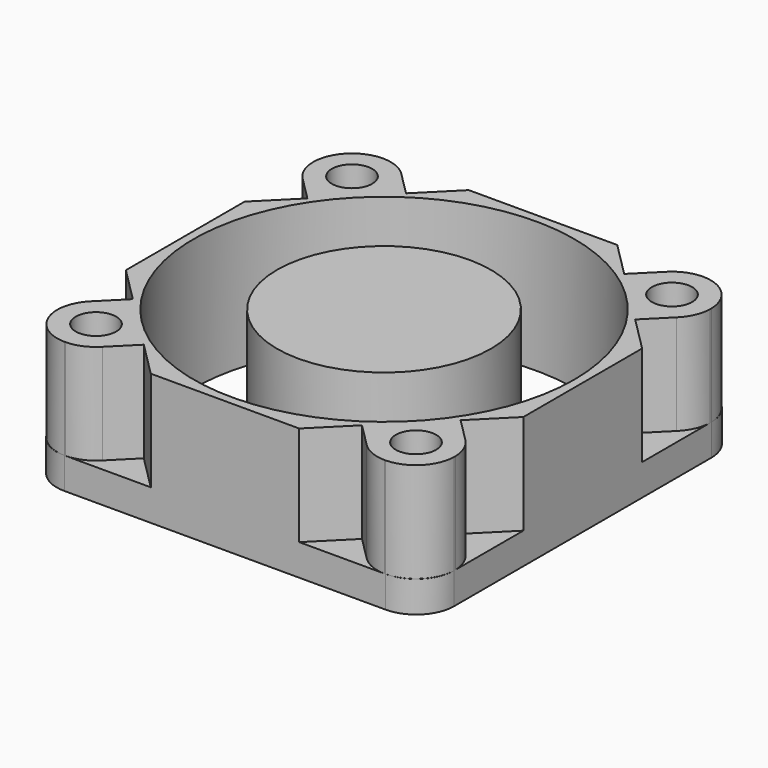
from build123d import *

# Parameters (mm, degrees)
F0_R     = 14.351
F1_DEPTH = 9.906
F2_W     = 35.827614
F2_H     = 36.253556
F3_DEPTH = 7.5438
F4_D     = 3.048
F5_R     = 8.0645
F6_DEPTH = 9.906


with BuildPart() as f1:
    # F0 (on Top) → F1 (new body)
    with BuildSketch(Plane.XY):
        with BuildLine():
            Line((12.1158, 14.986), (-12.1158, 14.986))
            ThreePointArc((-12.1158, 14.986), (-14.145338, 14.145338), (-14.986, 12.1158))
            Line((-14.986, 12.1158), (-14.986, -12.1158))
            ThreePointArc((-14.986, -12.1158), (-14.145338, -14.145338), (-12.1158, -14.986))
            Line((-12.1158, -14.986), (12.1158, -14.986))
            ThreePointArc((12.1158, -14.986), (14.145338, -14.145338), (14.986, -12.1158))
            Line((14.986, -12.1158), (14.986, 12.1158))
            ThreePointArc((14.986, 12.1158), (14.145338, 14.145338), (12.1158, 14.986))
        make_face()
        Circle(F0_R, mode=Mode.SUBTRACT)
    extrude(amount=F1_DEPTH)

    # F2 (on face) → F3 (cut)
    with BuildSketch(Plane.XY.offset(9.906)):
        with BuildLine():
            Line((-8.225915, 12.356832), (-9.96362, 14.094538))
            ThreePointArc((-9.96362, 14.094538), (-14.130771, 14.130771), (-14.094538, 9.96362))
            Line((-14.094538, 9.96362), (-12.356832, 8.225915))
            Line((-12.356832, 8.225915), (-14.986, 5.596747))
            Line((-14.986, 5.596747), (-14.986, -5.596747))
            Line((-14.986, -5.596747), (-12.356832, -8.225915))
            Line((-12.356832, -8.225915), (-14.094538, -9.96362))
            ThreePointArc((-14.094538, -9.96362), (-14.130771, -14.130771), (-9.96362, -14.094538))
            Line((-9.96362, -14.094538), (-8.225915, -12.356832))
            Line((-8.225915, -12.356832), (-5.596747, -14.986))
            Line((-5.596747, -14.986), (5.596747, -14.986))
            Line((5.596747, -14.986), (8.225915, -12.356832))
            Line((8.225915, -12.356832), (9.96362, -14.094538))
            ThreePointArc((9.96362, -14.094538), (14.130771, -14.130771), (14.094538, -9.96362))
            Line((14.094538, -9.96362), (12.356832, -8.225915))
            Line((12.356832, -8.225915), (14.986, -5.596747))
            Line((14.986, -5.596747), (14.986, 5.596747))
            Line((14.986, 5.596747), (12.356832, 8.225915))
            Line((12.356832, 8.225915), (14.094538, 9.96362))
            ThreePointArc((14.094538, 9.96362), (14.130771, 14.130771), (9.96362, 14.094538))
            Line((9.96362, 14.094538), (8.225915, 12.356832))
            Line((8.225915, 12.356832), (5.596747, 14.986))
            Line((5.596747, 14.986), (-5.596747, 14.986))
            Line((-5.596747, 14.986), (-8.225915, 12.356832))
        make_face()
        Rectangle(F2_W, F2_H)
        with BuildLine():
            ThreePointArc((-14.094538, 9.96362), (-14.130771, 14.130771), (-9.96362, 14.094538))
            Line((-9.96362, 14.094538), (-8.225915, 12.356832))
            Line((-8.225915, 12.356832), (-5.596747, 14.986))
            Line((-5.596747, 14.986), (5.596747, 14.986))
            Line((5.596747, 14.986), (8.225915, 12.356832))
            Line((8.225915, 12.356832), (9.96362, 14.094538))
            ThreePointArc((9.96362, 14.094538), (14.130771, 14.130771), (14.094538, 9.96362))
            Line((14.094538, 9.96362), (12.356832, 8.225915))
            Line((12.356832, 8.225915), (14.986, 5.596747))
            Line((14.986, 5.596747), (14.986, -5.596747))
            Line((14.986, -5.596747), (12.356832, -8.225915))
            Line((12.356832, -8.225915), (14.094538, -9.96362))
            ThreePointArc((14.094538, -9.96362), (14.130771, -14.130771), (9.96362, -14.094538))
            Line((9.96362, -14.094538), (8.225915, -12.356832))
            Line((8.225915, -12.356832), (5.596747, -14.986))
            Line((5.596747, -14.986), (-5.596747, -14.986))
            Line((-5.596747, -14.986), (-8.225915, -12.356832))
            Line((-8.225915, -12.356832), (-9.96362, -14.094538))
            ThreePointArc((-9.96362, -14.094538), (-14.130771, -14.130771), (-14.094538, -9.96362))
            Line((-14.094538, -9.96362), (-12.356832, -8.225915))
            Line((-12.356832, -8.225915), (-14.986, -5.596747))
            Line((-14.986, -5.596747), (-14.986, 5.596747))
            Line((-14.986, 5.596747), (-12.356832, 8.225915))
            Line((-12.356832, 8.225915), (-14.094538, 9.96362))
        make_face(mode=Mode.SUBTRACT)
    extrude(amount=-F3_DEPTH, mode=Mode.SUBTRACT)

    # F4 (through all)
    with Locations(Plane(origin=(0, 0, 0), x_dir=(1, 0, 0), z_dir=(0, 0, -1))):
        with Locations((-12.065, 12.065), (12.065, 12.065), (12.065, -12.065), (-12.065, -12.065)):
            Hole(F4_D / 2)


with BuildPart() as f6:
    # F5 (on Top) → F6 (new body)
    with BuildSketch(Plane.XY):
        Circle(F5_R)
    extrude(amount=F6_DEPTH)


solid = Compound([f1.part, f6.part])
